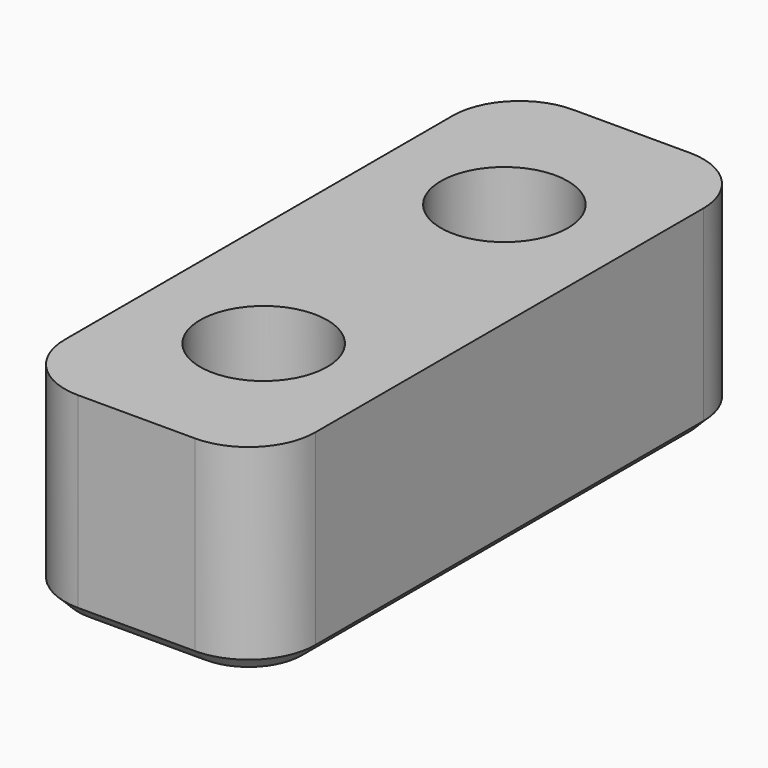
from build123d import *

# Parameters (mm, degrees)
CYLINDER010_R     = 1.9
CYLINDER010_DEPTH = 10
CYLINDER011_R     = 1.9
CYLINDER011_DEPTH = 10
BOX002_W          = 7.5
BOX002_H          = 18.5
BOX002_DEPTH      = 6
FILLET002_R       = 2
CHAMFER002_SIZE   = 0.4


with BuildPart() as cylinder010:
    # Cylinder010 → Cylinder010 (new body)
    with BuildSketch(Plane(origin=(0, 8.4, 0), x_dir=(1, 0, 0), z_dir=(0, 0, 1))):
        Circle(CYLINDER010_R)
    extrude(amount=CYLINDER010_DEPTH)


with BuildPart() as fusion003:
    # Cylinder011 → Cylinder011 (new body)
    with BuildSketch(Plane(origin=(0, 17.4, 0), x_dir=(1, 0, 0), z_dir=(0, 0, 1))):
        Circle(CYLINDER011_R)
    extrude(amount=CYLINDER011_DEPTH)

    # Fusion003: union Cylinder010
    add(cylinder010.part)


with BuildPart() as cut002:
    # Box002 → Box002 (new body)
    with BuildSketch(Plane(origin=(-3.75, 3.65, 0), x_dir=(1, 0, 0), z_dir=(0, 0, 1))):
        with Locations((3.75, 9.25)):
            Rectangle(BOX002_W, BOX002_H)
    extrude(amount=BOX002_DEPTH)

    # Fillet002
    fillet002_edges = [cut002.edges().sort_by_distance(p)[0] for p in [
        (-3.75, 3.65, 3),
        (-3.75, 22.15, 3),
        (3.75, 3.65, 3),
        (3.75, 22.15, 3),
    ]]
    fillet(fillet002_edges, radius=FILLET002_R)

    # Chamfer002
    chamfer002_edges = [cut002.edges().sort_by_distance(p)[0] for p in [
        (-3.75, 12.9, 0),
        (-3.164214, 4.235786, 0),
        (-3.164214, 21.564214, 0),
        (0, 3.65, 0),
        (3.164214, 4.235786, 0),
        (3.75, 12.9, 0),
        (3.164214, 21.564214, 0),
        (0, 22.15, 0),
    ]]
    chamfer(chamfer002_edges, length=CHAMFER002_SIZE)

    # Cut002: cut Fusion003
    add(fusion003.part, mode=Mode.SUBTRACT)


solid = cut002.part
